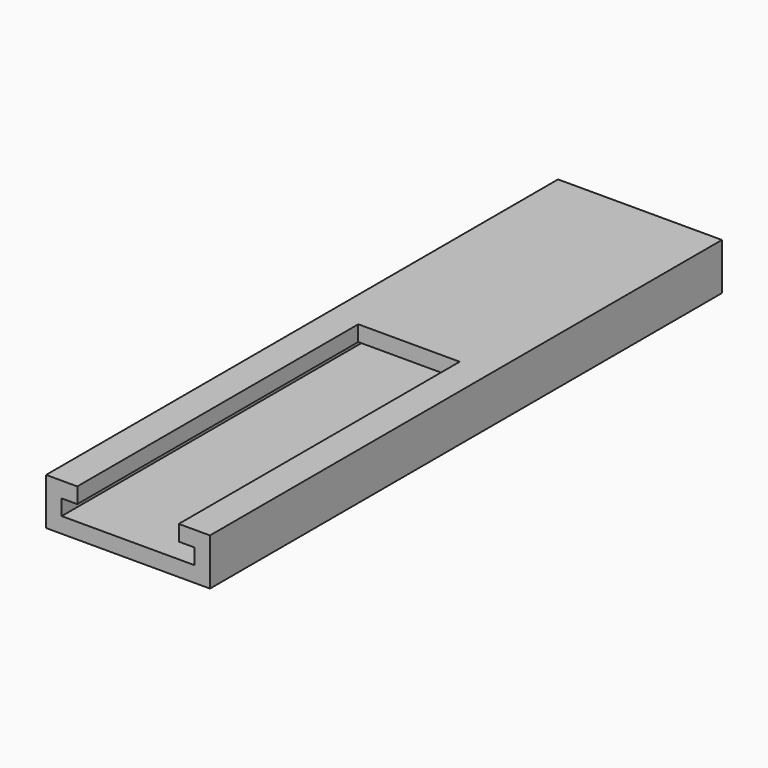
from build123d import *

# Parameters (mm, degrees)
F0_W     = 21
F0_H     = 82
F1_DEPTH = 2
F3_DEPTH = 2
F6_DEPTH = 2


with BuildPart() as f1:
    # F0 (on Top) → F1 (new body)
    with BuildSketch(Plane.XY):
        with Locations((-21.0416306257, 2.1058048904)):
            Rectangle(F0_W, F0_H)
    extrude(amount=F1_DEPTH)

    # F2 (on face) → F3 (join)
    with BuildSketch(Plane.XY.offset(2)):
        Polygon((-12.5416306257, -38.8941951096), (-10.5416306257, -38.8941951096), (-10.5416306257, 43.1058048904), (-31.5416306257, 43.1058048904), (-31.5416306257, -38.8941951096), (-29.5416306257, -38.8941951096), (-29.5416306257, 41.1058048904), (-12.5416306257, 41.1058048904), align=None)
    extrude(amount=F3_DEPTH)

    # F5 (on offset) → F6 (join)
    with BuildSketch(Plane.XY.offset(4)):
        Polygon((-10.5416306257, 8.1058048904), (-10.5416306257, 43.1058048904), (-31.5416306257, 43.1058048904), (-31.5416306257, 8.1058048904), (-31.5416306257, 0), (-31.5416306257, -38.8941951096), (-27.5416306257, -38.8941951096), (-27.5416306257, 6.1058048904), (-14.5416306257, 6.1058048904), (-14.5416306257, -38.8941951096), (-10.5416306257, -38.8941951096), align=None)
    extrude(amount=F6_DEPTH)


solid = f1.part
